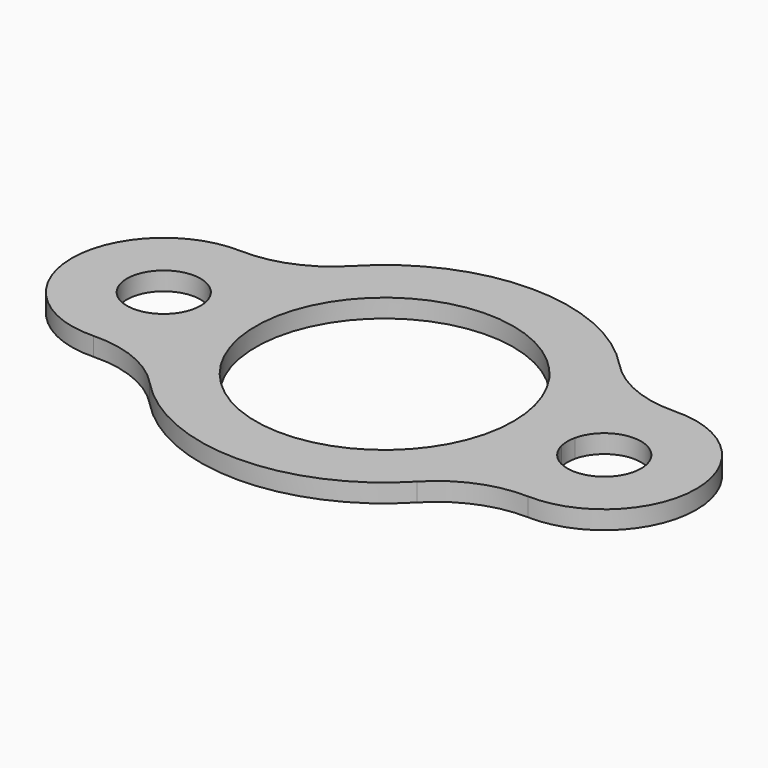
from build123d import *

# Parameters (mm, degrees)
F0_R     = 12.7
F0_R_2   = 44.45
F1_DEPTH = 6.35


with BuildPart() as f1:
    # F0 (on Top) → F1 (new body)
    with BuildSketch(Plane.XY):
        with BuildLine():
            ThreePointArc((-75.117614, -31.731545), (-59.347524, -34.564632), (-46.136719, -43.630874))
            ThreePointArc((-46.136719, -43.630874), (-0.005255, -63.5), (46.129497, -43.638509))
            ThreePointArc((46.129497, -43.638509), (59.240469, -34.61621), (74.89327, -31.737098))
            ThreePointArc((74.89327, -31.737098), (107.548333, 0), (74.89327, 31.737098))
            ThreePointArc((74.89327, 31.737098), (59.240469, 34.61621), (46.129497, 43.638509))
            ThreePointArc((46.129497, 43.638509), (-0.005255, 63.5), (-46.136719, 43.630874))
            ThreePointArc((-46.136719, 43.630874), (-59.347524, 34.564632), (-75.117614, 31.731545))
            ThreePointArc((-75.117614, 31.731545), (-107.95, 0), (-75.117614, -31.731545))
        make_face()
        with Locations((-76.2, 0)):
            Circle(F0_R, mode=Mode.SUBTRACT)
        Circle(F0_R_2, mode=Mode.SUBTRACT)
        with BuildLine():
            ThreePointArc((63.433765, 2.899563), (77.257783, 12.615863), (88.498333, 0))
            ThreePointArc((88.498333, 0), (77.257783, -12.615863), (63.433765, -2.899563))
            ThreePointArc((63.433765, -2.899563), (63.098333, 0), (63.433765, 2.899563))
        make_face(mode=Mode.SUBTRACT)
    extrude(amount=F1_DEPTH)


solid = f1.part
